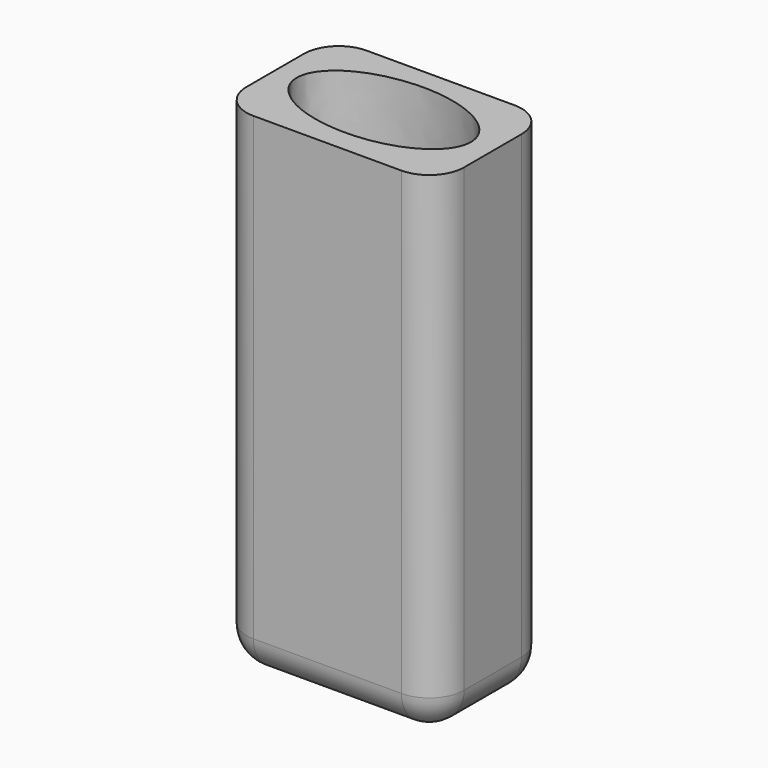
from build123d import *

# Parameters (mm, degrees)
F0_W     = 25.4
F0_H     = 14.2875
F1_DEPTH = 69.05625
F2_DEPTH = 3.175
F3_DEPTH = 3.175
F4_DEPTH = 3.175
F5_DEPTH = 3.175
F7_DEPTH = 69.05625
F8_W     = 31.75
F8_H     = 20.6375
F9_DEPTH = 3.175
F10_R    = 5.08
F11_R    = 5.08
F12_R    = 5.08
F13_R    = 5.08


with BuildPart() as f1:
    # F0 (on Top) → F1 (new body)
    with BuildSketch(Plane.XY):
        with Locations((0.1213269636, -0.1298861763)):
            Rectangle(F0_W, F0_H)
    extrude(amount=F1_DEPTH)

    # F2 (add): a face of the model
    f2_faces = [f1.faces().sort_by_distance(p)[0] for p in [
        (0.1213269636, -7.2736361763, 34.528125),
    ]]
    extrude(f2_faces, amount=F2_DEPTH)

    # F3 (add): a face of the model
    f3_faces = [f1.faces().sort_by_distance(p)[0] for p in [
        (-12.5786730364, -1.7173861763, 34.528125),
    ]]
    extrude(f3_faces, amount=F3_DEPTH)

    # F4 (add): a face of the model
    f4_faces = [f1.faces().sort_by_distance(p)[0] for p in [
        (-1.4661730364, 7.0138638237, 34.528125),
    ]]
    extrude(f4_faces, amount=F4_DEPTH)

    # F5 (add): a face of the model
    f5_faces = [f1.faces().sort_by_distance(p)[0] for p in [
        (12.8213269636, -0.1298861763, 34.528125),
    ]]
    extrude(f5_faces, amount=F5_DEPTH)

    # F6 (on face) → F7 (cut)
    with BuildSketch(Plane.XY.offset(69.05625)):
        with BuildLine():
            add(Edge.make_bspline(
                [(12.7, 0), (12.7, 12.3733379566), (-6.35, 6.1866689783), (-25.4, 0), (-6.35, -6.1866689783), (12.7, -12.3733379566), (12.7, 0)],
                knots=[0, 0, 0, 2.0943951024, 2.0943951024, 4.1887902048, 4.1887902048, 6.2831853072, 6.2831853072, 6.2831853072], degree=2, weights=[1, 0.5, 1, 0.5, 1, 0.5, 1]))
        make_face()
    extrude(amount=-F7_DEPTH, mode=Mode.SUBTRACT)

    # F8 (on face) → F9 (join)
    with BuildSketch(Plane(origin=(0, 0, 0), x_dir=(1, 0, 0), z_dir=(0, 0, -1))):
        with Locations((0.1213269636, 0.1298861763)):
            Rectangle(F8_W, F8_H)
    extrude(amount=F9_DEPTH)

    # F10
    f10_edges = [f1.edges().sort_by_distance(p)[0] for p in [
        (-15.753673, -10.448636, 32.940625),
    ]]
    fillet(f10_edges, radius=F10_R)

    # F11
    f11_edges = [f1.edges().sort_by_distance(p)[0] for p in [
        (15.996327, -10.448636, 32.940625),
    ]]
    fillet(f11_edges, radius=F11_R)

    # F12
    f12_edges = [f1.edges().sort_by_distance(p)[0] for p in [
        (15.996327, 10.188864, 32.940625),
    ]]
    fillet(f12_edges, radius=F12_R)

    # F13
    f13_edges = [f1.edges().sort_by_distance(p)[0] for p in [
        (-15.753673, 10.188864, 32.940625),
        (15.996327, -0.129886, -3.175),
        (14.508429, 8.700966, -3.175),
        (14.508429, -8.960739, -3.175),
        (-2.418673, 10.188864, -3.175),
        (0.121327, -10.448636, -3.175),
        (-15.753673, 2.410114, -3.175),
        (-14.265775, -8.960739, -3.175),
    ]]
    fillet(f13_edges, radius=F13_R)


solid = f1.part
